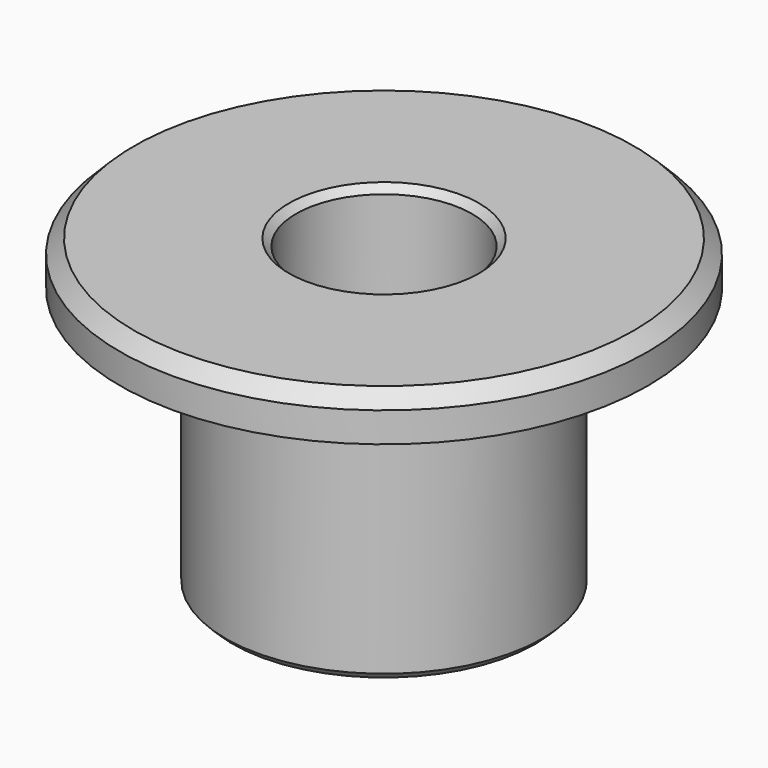
from build123d import *

# Parameters (mm, degrees)
F0_R     = 5.715
F0_R_2   = 3.175
F1_DEPTH = 9.525
F2_R     = 9.525
F2_R_2   = 5.715
F2_R_3   = 3.175
F3_DEPTH = 1.5875
F4_SIZE  = 0.508
F5_SIZE  = 0.254


with BuildPart() as f1:
    # F0 (on Top) → F1 (new body)
    with BuildSketch(Plane.XY):
        Circle(F0_R)
        Circle(F0_R_2, mode=Mode.SUBTRACT)
    extrude(amount=F1_DEPTH)

    # F2 (on face) → F3 (join)
    with BuildSketch(Plane.XY.offset(9.525)):
        Circle(F2_R)
        Circle(F2_R_2, mode=Mode.SUBTRACT)
        Circle(F2_R_2)
        Circle(F2_R_3, mode=Mode.SUBTRACT)
    extrude(amount=F3_DEPTH)

    # F4
    f4_edges = [f1.edges().sort_by_distance(p)[0] for p in [
        (-9.525, 0, 11.1125),
    ]]
    chamfer(f4_edges, length=F4_SIZE)

    # F5
    f5_edges = [f1.edges().sort_by_distance(p)[0] for p in [
        (-3.175, 0, 11.1125),
        (-5.715, 0, 0),
        (-3.175, 0, 0),
    ]]
    chamfer(f5_edges, length=F5_SIZE)


solid = f1.part
